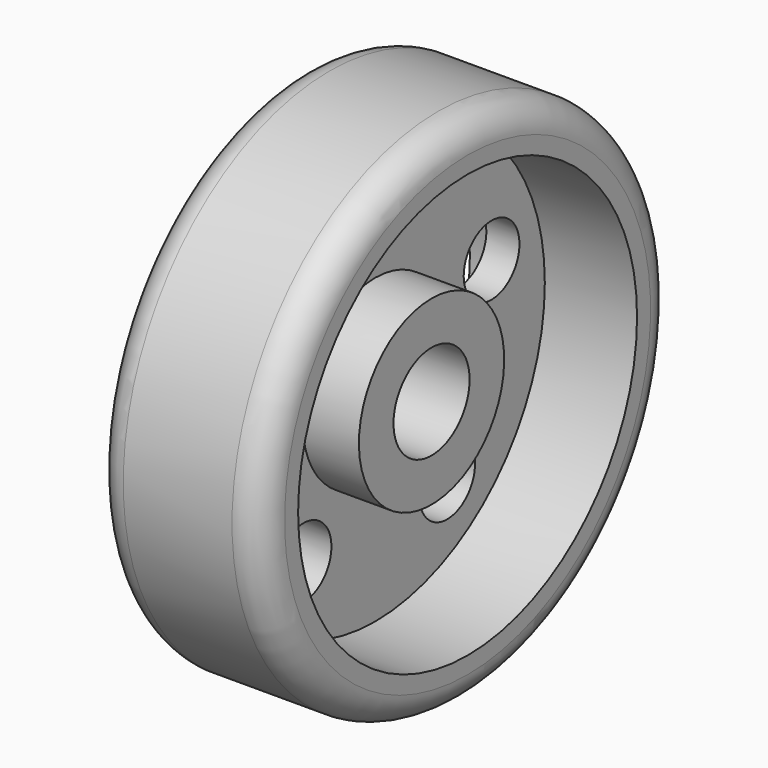
from build123d import *

# Parameters (mm, degrees)
F3_R     = 5
F2_R     = 5.970873
F4_DEPTH = 25


with BuildPart() as f1:
    # F0 (on Front) → F1 (revolve)
    with BuildSketch(Plane.XZ):
        Polygon((7.159092, 15.552509), (0, 15.552509), (0, 8.146551), (22.464735, 8.146551), (22.464735, 15.552509), (12.836992, 15.552509), (12.836992, 36.289185), (28.636364, 36.289185), (28.636364, 44.188876), (0, 44.188876), (0, 36.289185), (7.159092, 36.289185), align=None)
    revolve(axis=Axis((9.257446, 0, 0), (1, 0, 0)))

    # F3
    f3_edges = [f1.edges().sort_by_distance(p)[0] for p in [
        (28.636364, 0, -44.188876),
        (0, 0, -44.188876),
    ]]
    fillet(f3_edges, radius=F3_R)

    # F2 (on face) → F4 (cut)
    with BuildSketch(Plane(origin=(7.159092, 0, 0), x_dir=(0, -1, 0), z_dir=(-1, 0, 0))):
        with Locations((0, 26.167713)):
            Circle(F2_R)
        with Locations((-24.886974, 8.086268)):
            Circle(F2_R)
        with Locations((24.886974, 8.086268)):
            Circle(F2_R)
        with Locations((-15.380996, -21.170125)):
            Circle(F2_R)
        with Locations((15.380996, -21.170125)):
            Circle(F2_R)
    extrude(amount=-F4_DEPTH, mode=Mode.SUBTRACT)


solid = f1.part
